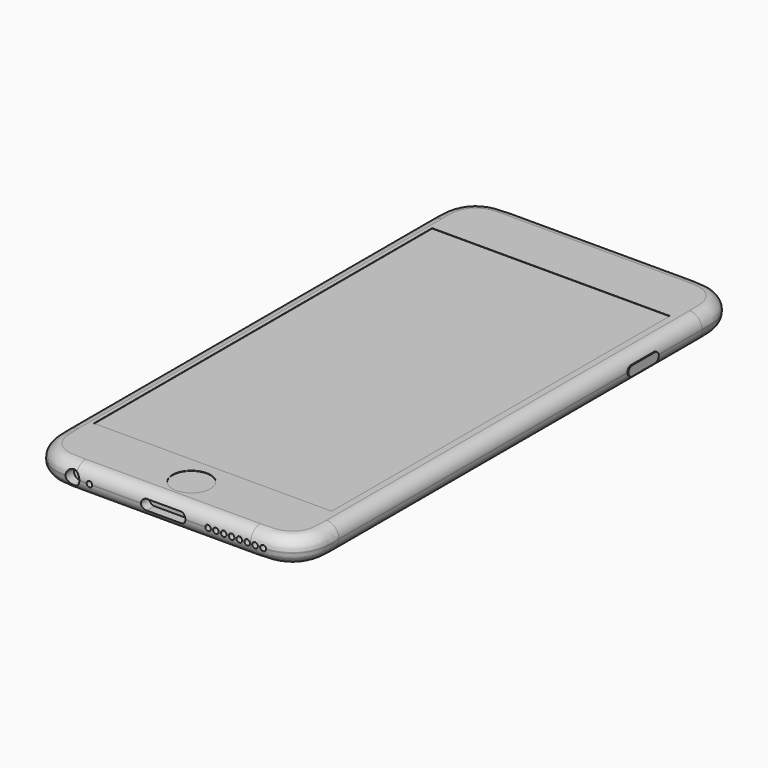
from build123d import *

# Parameters (mm, degrees)
F0_R           = 2.055
F0_R_2         = 0.8
F0_R_3         = 3.83
F1_DEPTH       = 7.3
F2_DEPTH       = 0.67
F3_DEPTH       = 0.1
F4_R           = 5.45
F5_DEPTH       = 0.1
F4_W           = 68.36
F4_H           = 121.54
F6_DEPTH       = 0.1
F10_R          = 3.55
F11_DEPTH      = 3
F11_DEPTH_BACK = 1
F7_R           = 0.8
F13_DEPTH      = 0.3
F14_DEPTH      = 0.3
F15_DEPTH      = 0.43


with BuildPart() as f1:
    # F0 (on Top) → F1 (new body)
    with BuildSketch(Plane.XY):
        with BuildLine():
            Line((-25.09, -79.36), (25.09, -79.36))
            add(Edge.make_bspline(
                [(25.09, -79.36), (25.59, -79.36), (29.3970719372, -79.3863132945), (32.8157812057, -78.6105951637), (36.313364005, -76.453364005), (38.4705951637, -72.9557812057), (39.2463132945, -69.5370719372), (39.22, -65.73), (39.22, -65.23)],
                knots=[0, 0, 0, 0, 0.1670203426, 0.3335413986, 0.5, 0.6664586014, 0.8329796574, 1, 1, 1, 1], degree=3))
            Line((39.22, -65.23), (39.22, 65.23))
            add(Edge.make_bspline(
                [(25.09, 79.36), (25.59, 79.36), (29.3970719372, 79.3863132945), (32.8157812057, 78.6105951637), (36.313364005, 76.453364005), (38.4705951637, 72.9557812057), (39.2463132945, 69.5370719372), (39.22, 65.73), (39.22, 65.23)],
                knots=[0, 0, 0, 0, 0.1670203426, 0.3335413986, 0.5, 0.6664586014, 0.8329796574, 1, 1, 1, 1], degree=3))
            Line((25.09, 79.36), (-25.09, 79.36))
            add(Edge.make_bspline(
                [(-25.09, 79.36), (-25.59, 79.36), (-29.3970719372, 79.3863132945), (-32.8157812057, 78.6105951637), (-36.313364005, 76.453364005), (-38.4705951637, 72.9557812057), (-39.2463132945, 69.5370719372), (-39.22, 65.73), (-39.22, 65.23)],
                knots=[0, 0, 0, 0, 0.1670203426, 0.3335413986, 0.5, 0.6664586014, 0.8329796574, 1, 1, 1, 1], degree=3))
            Line((-39.22, 65.23), (-39.22, -65.23))
            add(Edge.make_bspline(
                [(-25.09, -79.36), (-25.59, -79.36), (-29.3970719372, -79.3863132945), (-32.8157812057, -78.6105951637), (-36.313364005, -76.453364005), (-38.4705951637, -72.9557812057), (-39.2463132945, -69.5370719372), (-39.22, -65.73), (-39.22, -65.23)],
                knots=[0, 0, 0, 0, 0.1670203426, 0.3335413986, 0.5, 0.6664586014, 0.8329796574, 1, 1, 1, 1], degree=3))
        make_face()
        with Locations((13.06, 72.09)):
            Circle(F0_R, mode=Mode.SUBTRACT)
        with Locations((18.16, 72.09)):
            Circle(F0_R_2, mode=Mode.SUBTRACT)
        with Locations((25.12, 72.09)):
            Circle(F0_R_3, mode=Mode.SUBTRACT)
        with Locations((25.12, 72.09)):
            Circle(F0_R_3)
        with Locations((18.16, 72.09)):
            Circle(F0_R_2)
        with Locations((13.06, 72.09)):
            Circle(F0_R)
    extrude(amount=F1_DEPTH)

    # F0 (on Top) → F2 (join)
    with BuildSketch(Plane.XY):
        with Locations((25.12, 72.09)):
            Circle(F0_R_3)
    extrude(amount=-F2_DEPTH)

    # F0 (on Top) → F3 (cut)
    with BuildSketch(Plane.XY):
        with Locations((13.06, 72.09)):
            Circle(F0_R)
        with Locations((18.16, 72.09)):
            Circle(F0_R_2)
    extrude(amount=F3_DEPTH, mode=Mode.SUBTRACT)

    # F4 (on face) → F5 (cut)
    with BuildSketch(Plane.XY.offset(7.3)):
        with Locations((0.32, -69.6)):
            Circle(F4_R)
    extrude(amount=-F5_DEPTH, mode=Mode.SUBTRACT)

    # F4 (on face) → F6 (cut)
    with BuildSketch(Plane.XY.offset(7.3)):
        with Locations((-0.33, -0.33)):
            Rectangle(F4_W, F4_H)
    extrude(amount=-F6_DEPTH, mode=Mode.SUBTRACT)

    # F10
    f10_edges = [f1.edges().sort_by_distance(p)[0] for p in [
        (0, 79.36, 7.3),
        (0, 79.36, 0),
    ]]
    fillet(f10_edges, radius=F10_R)


with BuildPart() as f11:
    # F7 (on face) → F11 (new body, two sides)
    with BuildSketch(Plane.XZ.offset(79.36)) as f11_sk:
        with BuildLine():
            Line((-25.09, 1.9064117459), (-25.09, 5.3935882541))
            ThreePointArc((-25.09, 5.3935882541), (-28.1, 3.65), (-25.09, 1.9064117459))
        make_face()
        with BuildLine():
            ThreePointArc((-25.09, 1.9064117459), (-24.350732913, 2.6425031017), (-24.08, 3.65))
            ThreePointArc((-24.08, 3.65), (-24.350732913, 4.6574968983), (-25.09, 5.3935882541))
            Line((-25.09, 5.3935882541), (-25.09, 1.9064117459))
        make_face()
    extrude(amount=-F11_DEPTH)
    extrude(f11_sk.sketch, amount=F11_DEPTH_BACK)


with BuildPart() as f11b:
    # F7 (on face) → F11, piece 2 (new body, two sides)
    with BuildSketch(Plane.XZ.offset(79.36)) as f11_2_sk:
        with Locations((-21.2, 3.65)):
            Circle(F7_R)
    extrude(amount=-F11_DEPTH)
    extrude(f11_2_sk.sketch, amount=F11_DEPTH_BACK)


with BuildPart() as f11c:
    # F7 (on face) → F11, piece 3 (new body, two sides)
    with BuildSketch(Plane.XZ.offset(79.36)) as f11_3_sk:
        with BuildLine():
            Line((4.92, 5.125), (-4.92, 5.125))
            ThreePointArc((-4.92, 5.125), (-6.395, 3.65), (-4.92, 2.175))
            Line((-4.92, 2.175), (4.92, 2.175))
            ThreePointArc((4.92, 2.175), (5.9629825023, 2.6070174977), (6.395, 3.65))
            ThreePointArc((6.395, 3.65), (5.9629825023, 4.6929825023), (4.92, 5.125))
        make_face()
    extrude(amount=-F11_DEPTH)
    extrude(f11_3_sk.sketch, amount=F11_DEPTH_BACK)


with BuildPart() as f11d:
    # F7 (on face) → F11, piece 4 (new body, two sides)
    with BuildSketch(Plane.XZ.offset(79.36)) as f11_4_sk:
        with Locations((12.9, 3.65)):
            Circle(F7_R)
    extrude(amount=-F11_DEPTH)
    extrude(f11_4_sk.sketch, amount=F11_DEPTH_BACK)


with BuildPart() as f11e:
    # F7 (on face) → F11, piece 5 (new body, two sides)
    with BuildSketch(Plane.XZ.offset(79.36)) as f11_5_sk:
        with Locations((15.15, 3.65)):
            Circle(F7_R)
    extrude(amount=-F11_DEPTH)
    extrude(f11_5_sk.sketch, amount=F11_DEPTH_BACK)


with BuildPart() as f11f:
    # F7 (on face) → F11, piece 6 (new body, two sides)
    with BuildSketch(Plane.XZ.offset(79.36)) as f11_6_sk:
        with Locations((17.4, 3.65)):
            Circle(F7_R)
    extrude(amount=-F11_DEPTH)
    extrude(f11_6_sk.sketch, amount=F11_DEPTH_BACK)


with BuildPart() as f11g:
    # F7 (on face) → F11, piece 7 (new body, two sides)
    with BuildSketch(Plane.XZ.offset(79.36)) as f11_7_sk:
        with Locations((19.65, 3.65)):
            Circle(F7_R)
    extrude(amount=-F11_DEPTH)
    extrude(f11_7_sk.sketch, amount=F11_DEPTH_BACK)


with BuildPart() as f11h:
    # F7 (on face) → F11, piece 8 (new body, two sides)
    with BuildSketch(Plane.XZ.offset(79.36)) as f11_8_sk:
        with Locations((21.9, 3.65)):
            Circle(F7_R)
    extrude(amount=-F11_DEPTH)
    extrude(f11_8_sk.sketch, amount=F11_DEPTH_BACK)


with BuildPart() as f11i:
    # F7 (on face) → F11, piece 9 (new body, two sides)
    with BuildSketch(Plane.XZ.offset(79.36)) as f11_9_sk:
        with Locations((24.15, 3.65)):
            Circle(F7_R)
    extrude(amount=-F11_DEPTH)
    extrude(f11_9_sk.sketch, amount=F11_DEPTH_BACK)


with BuildPart() as f11j:
    # F7 (on face) → F11, piece 10 (new body, two sides)
    with BuildSketch(Plane.XZ.offset(79.36)) as f11_10_sk:
        with Locations((26.4, 3.65)):
            Circle(F7_R)
    extrude(amount=-F11_DEPTH)
    extrude(f11_10_sk.sketch, amount=F11_DEPTH_BACK)


with BuildPart() as f11k:
    # F7 (on face) → F11, piece 11 (new body, two sides)
    with BuildSketch(Plane.XZ.offset(79.36)) as f11_11_sk:
        with Locations((28.65, 3.65)):
            Circle(F7_R)
    extrude(amount=-F11_DEPTH)
    extrude(f11_11_sk.sketch, amount=F11_DEPTH_BACK)


with BuildPart() as f1_1:
    add(f1.part)

    # F12: cut F11, F11b, F11d, F11e, F11f, F11g, F11h, F11i, F11j, F11k, F11c
    add(f11.part, mode=Mode.SUBTRACT)
    add(f11b.part, mode=Mode.SUBTRACT)
    add(f11d.part, mode=Mode.SUBTRACT)
    add(f11e.part, mode=Mode.SUBTRACT)
    add(f11f.part, mode=Mode.SUBTRACT)
    add(f11g.part, mode=Mode.SUBTRACT)
    add(f11h.part, mode=Mode.SUBTRACT)
    add(f11i.part, mode=Mode.SUBTRACT)
    add(f11j.part, mode=Mode.SUBTRACT)
    add(f11k.part, mode=Mode.SUBTRACT)
    add(f11c.part, mode=Mode.SUBTRACT)

    # F8 (on face) → F13 (join)
    with BuildSketch(Plane.YZ.offset(39.22)):
        with BuildLine():
            ThreePointArc((39.81, 5.05), (38.41, 3.65), (39.81, 2.25))
            Line((39.81, 2.25), (47.95, 2.25))
            ThreePointArc((47.95, 2.25), (49.35, 3.65), (47.95, 5.05))
            Line((47.95, 5.05), (39.81, 5.05))
        make_face()
    extrude(amount=F13_DEPTH)

    # F9 (on face) → F14 (join)
    with BuildSketch(Plane(origin=(-39.22, 0, 0), x_dir=(0, -1, 0), z_dir=(-1, 0, 0))):
        with BuildLine():
            ThreePointArc((-35.27, 5.03), (-36.67, 3.63), (-35.27, 2.23))
            Line((-35.27, 2.23), (-27.13, 2.23))
            ThreePointArc((-27.13, 2.23), (-25.73, 3.63), (-27.13, 5.03))
            Line((-27.13, 5.03), (-35.27, 5.03))
        make_face()
        with BuildLine():
            ThreePointArc((-47.88, 5.03), (-49.28, 3.63), (-47.88, 2.23))
            Line((-47.88, 2.23), (-39.74, 2.23))
            ThreePointArc((-39.74, 2.23), (-38.34, 3.63), (-39.74, 5.03))
            Line((-39.74, 5.03), (-47.88, 5.03))
        make_face()
    extrude(amount=F14_DEPTH)

    # F9 (on face) → F15 (join)
    with BuildSketch(Plane(origin=(-39.22, 0, 0), x_dir=(0, -1, 0), z_dir=(-1, 0, 0))):
        with BuildLine():
            ThreePointArc((-59.595, 4.63), (-60.58, 3.645), (-59.595, 2.66))
            Line((-59.595, 2.66), (-55.955, 2.66))
            ThreePointArc((-55.955, 2.66), (-54.97, 3.645), (-55.955, 4.63))
            Line((-55.955, 4.63), (-59.595, 4.63))
        make_face()
    extrude(amount=F15_DEPTH)


solid = f1_1.part
